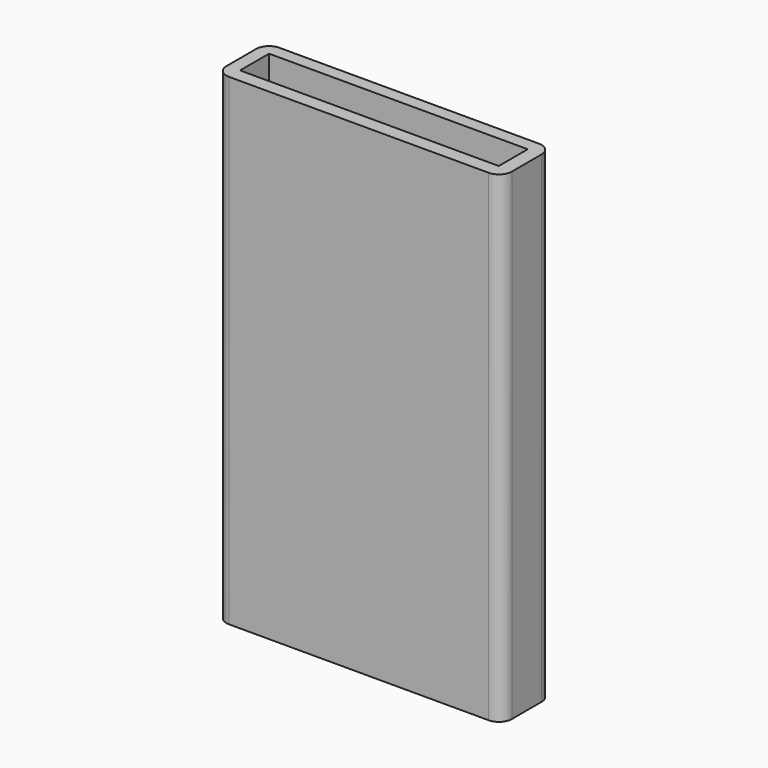
from build123d import *

# Parameters (mm, degrees)
F0_W     = 2.54
F0_H     = 7.1617185763
F0_W_2   = 51.1285213447
F0_H_2   = 2.54
F1_DEPTH = 95.25


with BuildPart() as f1:
    # F0 (on Top) → F1 (new body)
    with BuildSketch(Plane.XY):
        with Locations((1.27, 6.3240587558)):
            Rectangle(F0_W, F0_H)
        with BuildLine():
            Line((0, 9.9049180439), (2.54, 9.9049180439))
            Line((2.54, 9.9049180439), (2.54, 12.4449180439))
            ThreePointArc((2.54, 12.4449180439), (0.7439487758, 11.7009692681), (0, 9.9049180439))
        make_face()
        with Locations((28.1042606723, 11.1749180439)):
            Rectangle(F0_W_2, F0_H_2)
        with BuildLine():
            Line((53.6685213447, 9.9049180439), (56.4117208123, 9.9049180439))
            ThreePointArc((56.4117208123, 9.9049180439), (55.6677720365, 11.7009692681), (53.8717208123, 12.4449180439))
            Line((53.8717208123, 12.4449180439), (53.6685213447, 12.4449180439))
            Line((53.6685213447, 12.4449180439), (53.6685213447, 9.9049180439))
        make_face()
        with BuildLine():
            Line((2.54, 2.7431994677), (2.54, 0))
            Line((2.54, 0), (53.8717208123, 0))
            ThreePointArc((53.8717208123, 0), (55.6677720365, 0.7439487758), (56.4117208123, 2.54))
            Line((56.4117208123, 2.54), (56.4117208123, 9.9049180439))
            Line((56.4117208123, 9.9049180439), (53.6685213447, 9.9049180439))
            Line((53.6685213447, 9.9049180439), (53.6685213447, 2.7431994677))
            Line((53.6685213447, 2.7431994677), (2.54, 2.7431994677))
        make_face()
        with BuildLine():
            ThreePointArc((0, 2.54), (0.7439487758, 0.7439487758), (2.54, 0))
            Line((2.54, 0), (2.54, 2.7431994677))
            Line((2.54, 2.7431994677), (0, 2.7431994677))
            Line((0, 2.7431994677), (0, 2.54))
        make_face()
    extrude(amount=F1_DEPTH)


solid = f1.part
